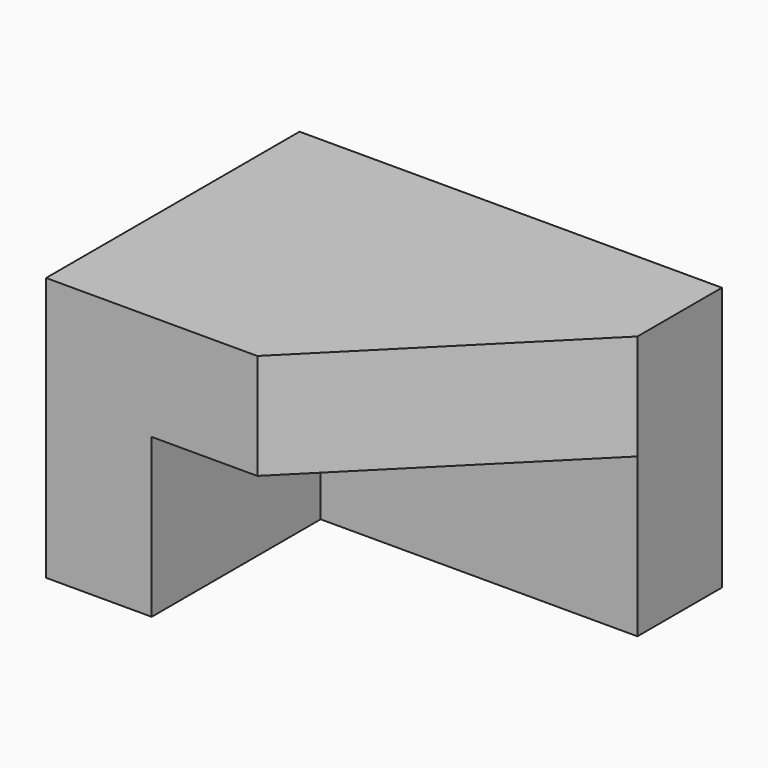
from build123d import *

# Parameters (mm, degrees)
F0_W     = 203.2
F0_H     = 127
F1_DEPTH = 50.8
F2_W     = 50.8
F2_H     = 76.2
F2_H_2   = 50.8
F3_DEPTH = 101.6
F5_DEPTH = 50.8


with BuildPart() as f1:
    # F0 (on Front) → F1 (new body)
    with BuildSketch(Plane.XZ):
        with Locations((-31.441638, 8.165119)):
            Rectangle(F0_W, F0_H)
    extrude(amount=F1_DEPTH)

    # F2 (on face) → F3 (join)
    with BuildSketch(Plane.XZ.offset(50.8)):
        with Locations((-107.641638, -17.234881)):
            Rectangle(F2_W, F2_H)
        with Locations((-107.641638, 46.265119)):
            Rectangle(F2_W, F2_H_2)
        with Locations((-56.841638, 46.265119)):
            Rectangle(F2_W, F2_H_2)
    extrude(amount=F3_DEPTH)

    # F4 (on face) → F5 (join)
    with BuildSketch(Plane.XY.offset(71.665119)):
        Polygon((-31.441638, -50.8), (-31.441638, -152.4), (70.158362, -50.8), align=None)
    extrude(amount=-F5_DEPTH)


solid = f1.part
